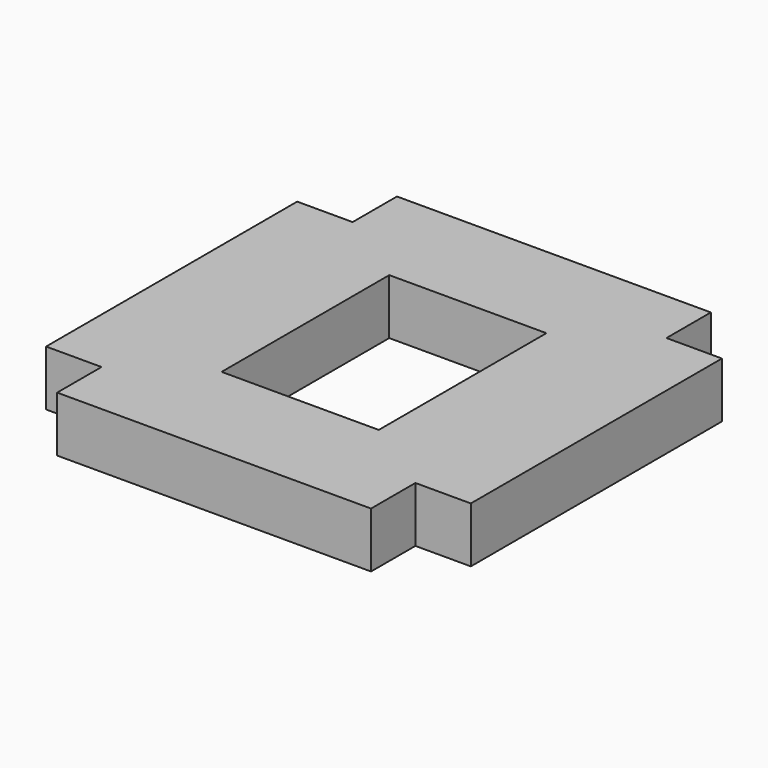
from build123d import *

# Parameters (mm, degrees)
F0_W     = 18
F0_H     = 24
F1_DEPTH = 6.35


with BuildPart() as f1:
    # F0 (on Top) → F1 (new body)
    with BuildSketch(Plane.XY):
        Polygon((17.975, 0), (-17.975, 0), (-17.975, -6.35), (-24.325, -6.35), (-24.325, -42.3), (-17.975, -42.3), (-17.975, -48.65), (17.975, -48.65), (17.975, -42.3), (24.325, -42.3), (24.325, -6.35), (17.975, -6.35), align=None)
        with Locations((0, -24.325)):
            Rectangle(F0_W, F0_H, mode=Mode.SUBTRACT)
    extrude(amount=F1_DEPTH)


solid = f1.part
